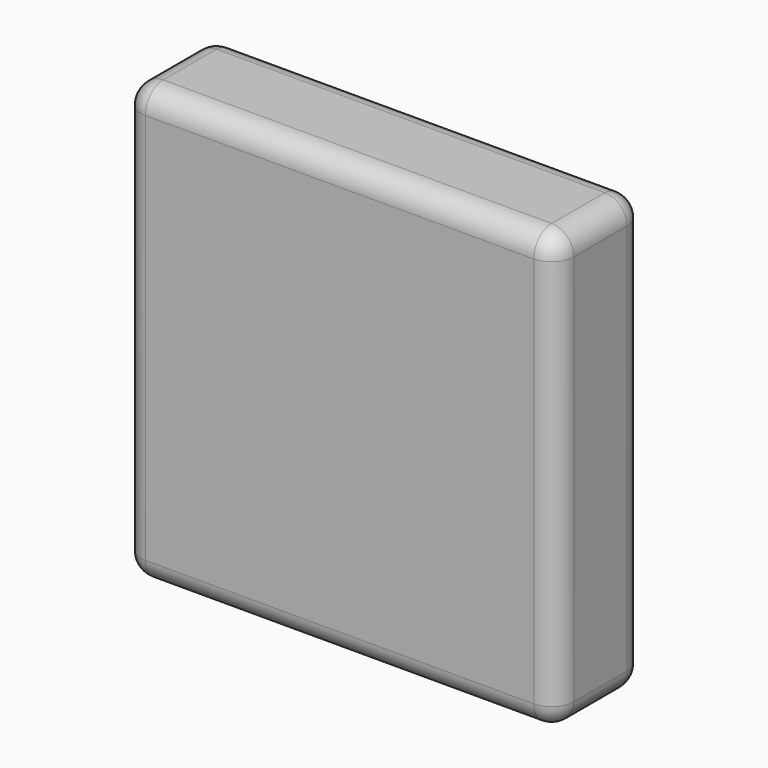
from build123d import *

# Parameters (mm, degrees)
F0_W     = 99.1169009358
F0_H     = 99.8616721481
F1_DEPTH = 25.4
F2_R     = 5.08
F3_R     = 5.08


with BuildPart() as f1:
    # F0 (on Front) → F1 (new body)
    with BuildSketch(Plane.XZ):
        with Locations((-25.8220164105, 26.4521958306)):
            Rectangle(F0_W, F0_H)
    extrude(amount=F1_DEPTH)

    # F2
    f2_edges = [f1.edges().sort_by_distance(p)[0] for p in [
        (23.736434, -25.4, 26.452196),
        (23.736434, 0, 26.452196),
    ]]
    fillet(f2_edges, radius=F2_R)

    # F3
    f3_edges = [f1.edges().sort_by_distance(p)[0] for p in [
        (-28.362016, -25.4, -23.47864),
        (-28.362016, 0, -23.47864),
        (-28.362016, -25.4, 76.383032),
        (18.656434, -25.4, 26.452196),
        (-75.380467, -25.4, 26.452196),
        (-75.380467, -12.7, 76.383032),
        (-75.380467, -12.7, -23.47864),
        (-75.380467, 0, 26.452196),
        (22.248537, -1.487898, -23.47864),
        (23.736434, -5.08, 26.452196),
        (18.656434, 0, 26.452196),
        (22.248537, -1.487898, 76.383032),
        (22.248537, -23.912102, -23.47864),
        (23.736434, -20.32, 26.452196),
        (22.248537, -23.912102, 76.383032),
        (-28.362016, 0, 76.383032),
        (23.736434, -12.7, 76.383032),
        (23.736434, -12.7, -23.47864),
    ]]
    fillet(f3_edges, radius=F3_R)


solid = f1.part
